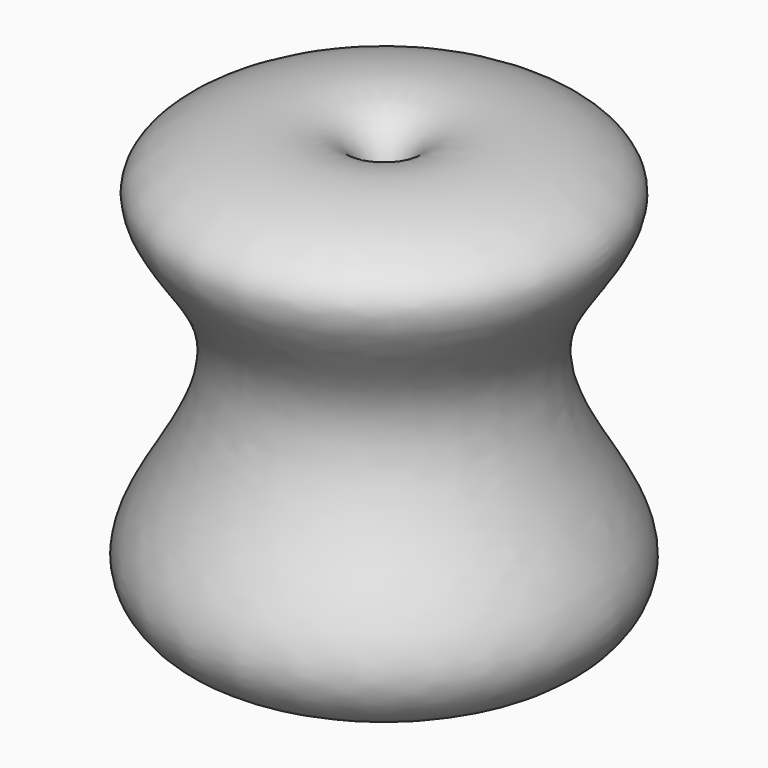
from build123d import *


with BuildPart() as f1:
    # F0 (on Front) → F1 (revolve)
    with BuildSketch(Plane.XZ):
        with BuildLine():
            add(Edge.make_bspline(
                [(1.3421872864, 6.0488046147), (-0.2867561796, 5.3454601576), (0.2823708419, 0.1653727831), (-0.4219402534, -9.6248997511), (2.9990008339, -7.5199886002), (5.3106354039, -8.9284826829), (7.637415299, -6.3959397692), (5.2649220112, -3.2204269186), (3.7519712267, 0.9133467691), (8.7786236007, 5.1698250503), (2.8548967559, 6.7019616105), (1.3421872864, 6.0488046147)],
                knots=[0, 0, 0, 0, 0.1366937138, 0.2945380075, 0.3757174985, 0.4607067855, 0.5450729084, 0.6492445617, 0.7609236065, 0.8730601279, 1, 1, 1, 1], degree=3))
        make_face()
    revolve(axis=Axis((-0.2822723472, 0, 4.207500373), (0, 0, 1)))


solid = f1.part
